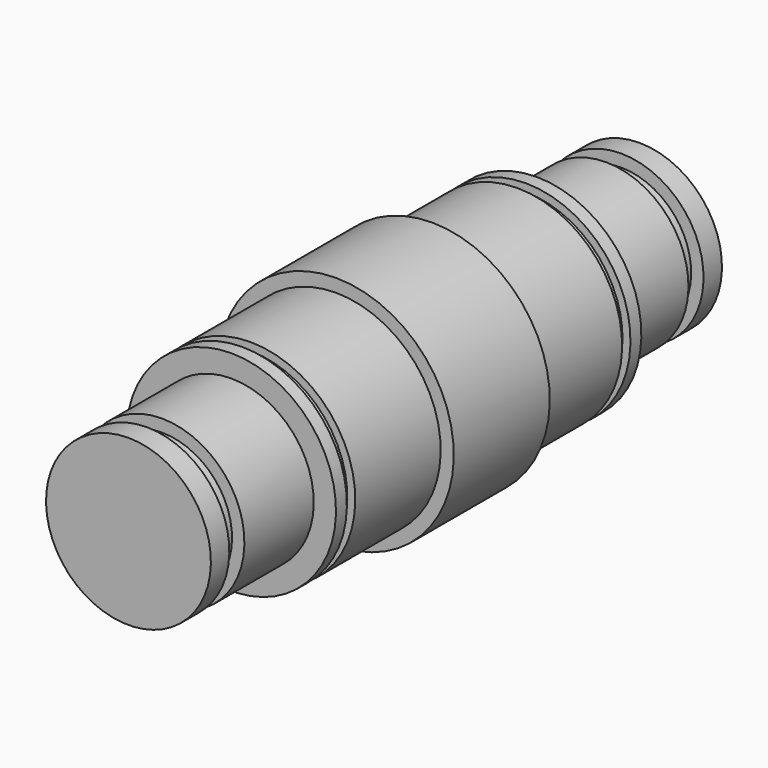
from build123d import *


with BuildPart() as f1:
    # F0 (on Right) → F1 (revolve)
    with BuildSketch(Plane.YZ):
        Polygon((-23.153882, 10), (-23.153882, 0), (-7.278882, 0), (-7.278882, 12.7), (-20.232882, 12.7), (-20.232882, 11.7348), (-21.502882, 11.7348), (-21.502882, 12.7), (-23.153882, 12.7), align=None)
        Polygon((-7.278882, 12.7), (-7.278882, 0), (0, 0), (7.278882, 0), (7.278882, 12.7), (7.278882, 14.2875), (0, 14.2875), (-7.278882, 14.2875), align=None)
        Polygon((7.278882, 12.7), (7.278882, 0), (23.153882, 0), (23.153882, 10), (23.153882, 12.7), (21.502882, 12.7), (21.502882, 11.7348), (20.232882, 11.7348), (20.232882, 12.7), align=None)
        Polygon((23.153882, 10), (23.153882, 0), (38.749482, 0), (38.749482, 10), (35.955482, 10), (35.955482, 8.5), (33.669482, 8.5), (33.669482, 10), align=None)
        Polygon((-35.955482, 10), (-38.749482, 10), (-38.749482, 0), (-23.153882, 0), (-23.153882, 10), (-33.669482, 10), (-33.669482, 8.5), (-35.955482, 8.5), align=None)
    revolve(axis=Axis((0, 24.889843, 0), (0, -1, 0)))


solid = f1.part
